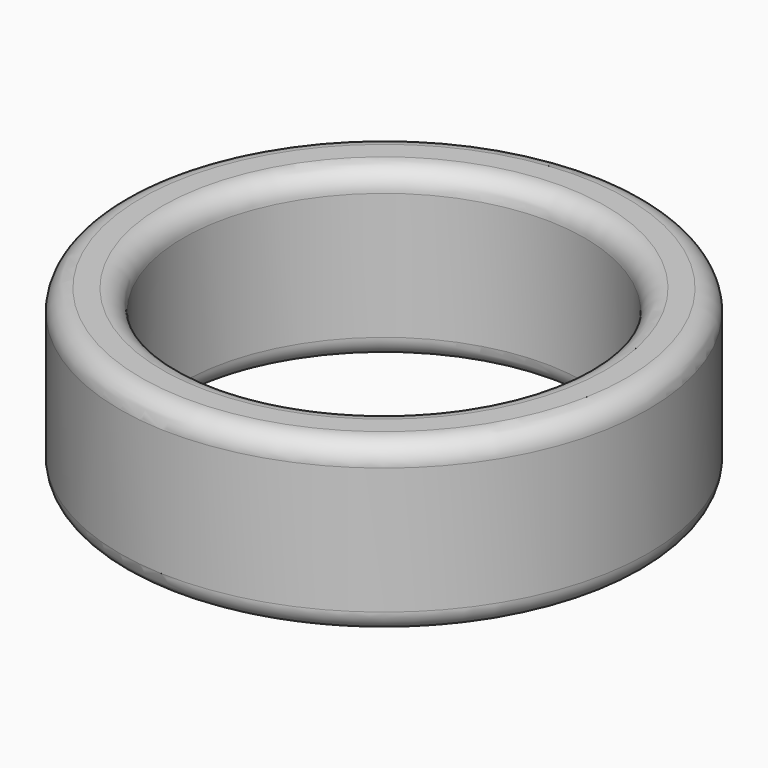
from build123d import *


with BuildPart() as f1:
    # F0 (on Front) → F1 (revolve)
    with BuildSketch(Plane.XZ):
        with BuildLine():
            Line((11.5, 4.718704), (10.5, 4.718704))
            ThreePointArc((10.5, 4.718704), (9.792893, 4.425811), (9.5, 3.718704))
            Line((9.5, 3.718704), (9.5, -2.281296))
            ThreePointArc((9.5, -2.281296), (9.792893, -2.988403), (10.5, -3.281296))
            Line((10.5, -3.281296), (11.5, -3.281296))
            ThreePointArc((11.5, -3.281296), (12.207107, -2.988403), (12.5, -2.281296))
            Line((12.5, -2.281296), (12.5, 3.718704))
            ThreePointArc((12.5, 3.718704), (12.207107, 4.425811), (11.5, 4.718704))
        make_face()
    revolve(axis=Axis((0, 0, 0.718704), (0, 0, -1)))


solid = f1.part
